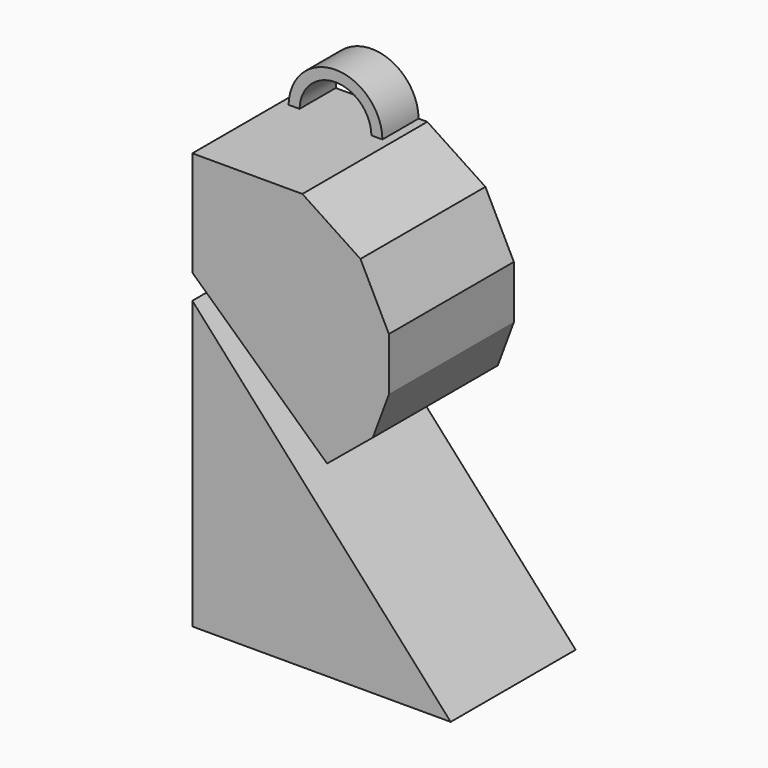
from build123d import *

# Parameters (mm, degrees)
F1_DEPTH = 36.83
F2_W     = 9.9101620726
F2_H     = 20.4049523454
F2_R     = 11.0608053269
F2_R_2   = 8.4731634686
F3_DEPTH = 10.668


with BuildPart() as f1:
    # F0 (on Front) → F1 (new body)
    with BuildSketch(Plane.XZ):
        Polygon((34.9770523608, -44.1585220397), (-25.9413123131, 23.4637726098), (-25.9413123131, -44.1585220397), align=None)
    extrude(amount=F1_DEPTH)



with BuildPart() as f1b:
    # F0 (on Front) → F1, piece 2 (new body)
    with BuildSketch(Plane.XZ):
        Polygon((-25.9413123131, 54.0686920285), (-25.9413123131, 29.2932782322), (5.829508882, 0), (16.6140999645, 8.890000172), (20.4032789916, 19.0916396677), (20.4032789916, 31.6250808537), (13.699343428, 45.0329519808), (0, 54.0686920285), align=None)
    extrude(amount=F1_DEPTH)


with BuildPart() as f1_1:
    add(f1.part)

    add(f1b.part)  # F3 merges F1b
    # F2 (on Front) → F3 (join)
    with BuildSketch(Plane.XZ):
        with Locations((-11.3675410394, 12.7937035868)):
            Rectangle(F2_W, F2_H)
        with Locations((-13.1163941696, 53.8951084018)):
            Circle(F2_R)
        with Locations((-13.1163941696, 53.8951084018)):
            Circle(F2_R_2, mode=Mode.SUBTRACT)
    extrude(amount=F3_DEPTH)


solid = f1_1.part
